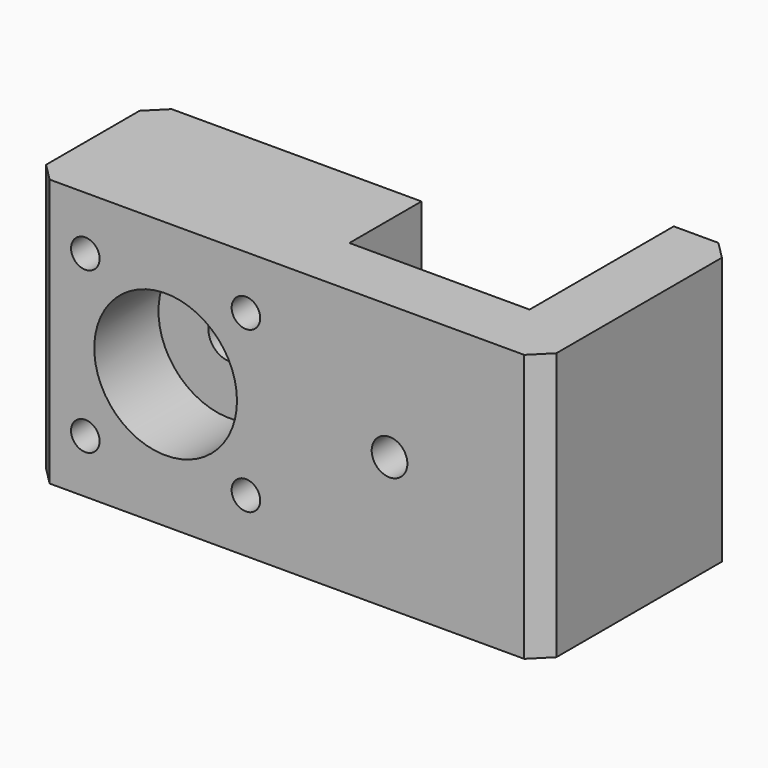
from build123d import *

# Parameters (mm, degrees)
PAD_DEPTH     = 15
SKETCH002_R   = 1.6
SKETCH002_R_2 = 2
POCKET_DEPTH  = 27.201
CHAMFER_SIZE  = 2


with BuildPart() as bodyinner:
    # Sketch001 → Revolution (revolve)
    with BuildSketch(Plane.XY):
        Polygon((0, 0), (8, 0), (8, 9), (2.4, 9), (2.4, 35), (0, 35), align=None)
    revolve(axis=Axis((0, 0, 0), (0, 1, 0)))


with BuildPart() as chamfer_body:
    # Sketch → Pad (new body, symmetric)
    with BuildSketch(Plane.XY):
        Polygon((-15, 17.1), (15, 17.1), (15, 7), (35.2, 7), (35.2, 27.2), (42.2, 27.2), (42.2, 0), (-15, 0), align=None)
    extrude(amount=PAD_DEPTH, both=True)

    # Sketch002 → Pocket (cut, through all)
    with BuildSketch(Plane.XZ):
        with Locations((-9, 9)):
            Circle(SKETCH002_R)
        with Locations((9, 9)):
            Circle(SKETCH002_R)
        with Locations((9, -9)):
            Circle(SKETCH002_R)
        with Locations((-9, -9)):
            Circle(SKETCH002_R)
        with Locations((25.1, 0)):
            Circle(SKETCH002_R_2)
    extrude(amount=-POCKET_DEPTH, mode=Mode.SUBTRACT)

    # Cut: cut BodyInner
    add(bodyinner.part, mode=Mode.SUBTRACT)

    # Chamfer
    chamfer_edges = [chamfer_body.edges().sort_by_distance(p)[0] for p in [
        (-15, 17.1, 0),
        (-15, 0, 0),
        (42.2, 0, 0),
        (42.2, 27.2, 0),
    ]]
    chamfer(chamfer_edges, length=CHAMFER_SIZE)


solid = chamfer_body.part
